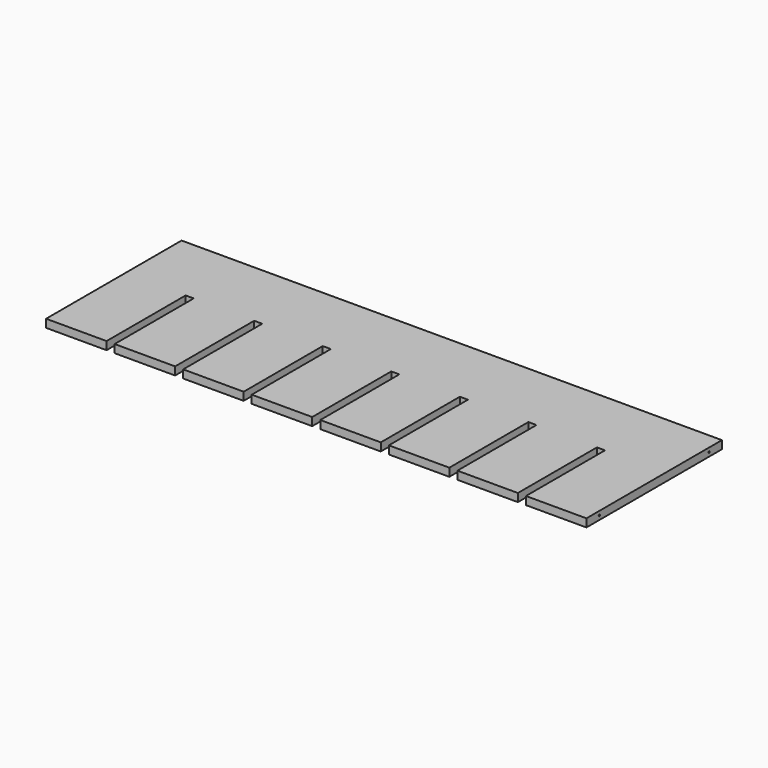
from build123d import *

# Parameters (mm, degrees)
F0_W     = 670
F0_H     = 210
F1_DEPTH = 10
F2_W     = 10
F2_H     = 122.5349456072
F3_DEPTH = 25
F5_D     = 2
F5_DEPTH = 12
F5_TIP   = 0.600860619
F7_D     = 2
F7_DEPTH = 12
F7_TIP   = 0.600860619


with BuildPart() as f1:
    # F0 (on Top) → F1 (new body)
    with BuildSketch(Plane.XY):
        with Locations((-335, 105)):
            Rectangle(F0_W, F0_H)
    extrude(amount=F1_DEPTH)

    # F2 (on face) → F3 (cut)
    with BuildSketch(Plane.XY.offset(10)):
        with Locations((-590, 61.2674728036)):
            Rectangle(F2_W, F2_H)
        with Locations((-505, 61.2674728036)):
            Rectangle(F2_W, F2_H)
        with Locations((-420, 61.2674728036)):
            Rectangle(F2_W, F2_H)
        with Locations((-335, 61.2674728036)):
            Rectangle(F2_W, F2_H)
        with Locations((-250, 61.2674728036)):
            Rectangle(F2_W, F2_H)
        with Locations((-165, 61.2674728036)):
            Rectangle(F2_W, F2_H)
        with Locations((-80, 61.2674728036)):
            Rectangle(F2_W, F2_H)
    extrude(amount=-F3_DEPTH, mode=Mode.SUBTRACT)

    # F5
    with Locations(Plane(origin=(-670, 0, 0), x_dir=(0, -1, 0), z_dir=(-1, 0, 0))):
        with Locations((-190, 5), (-20, 5)):
            Hole(F5_D / 2, depth=F5_DEPTH)
            with Locations((0, 0, -(F5_DEPTH + F5_TIP / 2))):  # 118° drill point
                Cone(0, F5_D / 2, F5_TIP, mode=Mode.SUBTRACT)

    # F7
    with Locations(Plane.YZ):
        with Locations((20, 5), (190, 5)):
            Hole(F7_D / 2, depth=F7_DEPTH)
            with Locations((0, 0, -(F7_DEPTH + F7_TIP / 2))):  # 118° drill point
                Cone(0, F7_D / 2, F7_TIP, mode=Mode.SUBTRACT)


solid = f1.part
